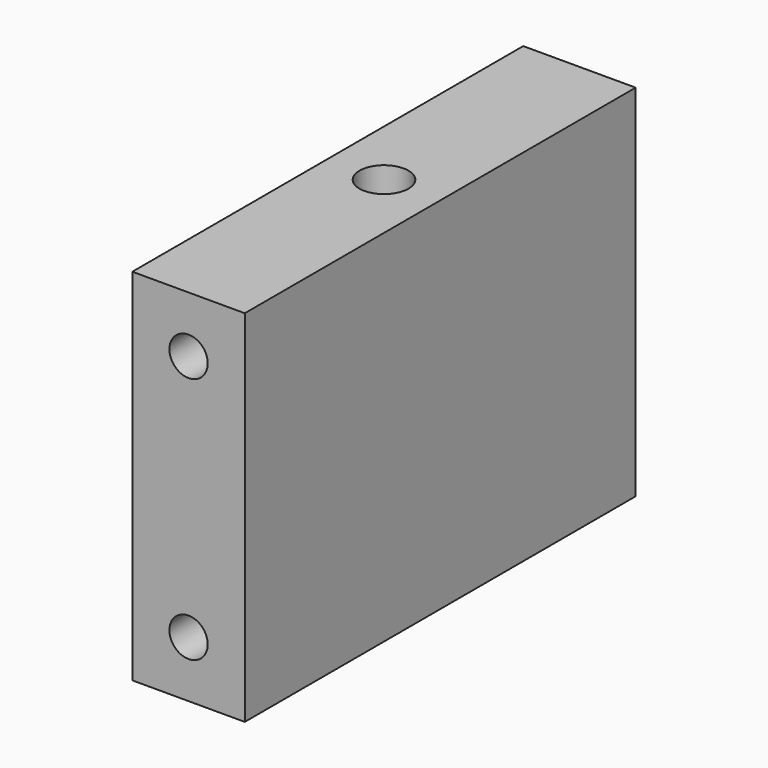
from build123d import *

# Parameters (mm, degrees)
F0_W     = 7.9375
F0_H     = 34.493074
F0_R     = 1.7272
F1_DEPTH = 25.4
F2_R     = 1.35255
F3_DEPTH = 4.7625
F4_R     = 1.35255
F5_DEPTH = 4.7625


with BuildPart() as f1:
    # F0 (on Top) → F1 (new body)
    with BuildSketch(Plane.XY):
        Rectangle(F0_W, F0_H)
        Circle(F0_R, mode=Mode.SUBTRACT)
    extrude(amount=F1_DEPTH)

    # F2 (on face) → F3 (cut)
    with BuildSketch(Plane(origin=(0, 17.246537, 0), x_dir=(-1, 0, 0), z_dir=(0, 1, 0))):
        with Locations((0, 3.96875)):
            Circle(F2_R)
        with Locations((0, 21.43125)):
            Circle(F2_R)
    extrude(amount=-F3_DEPTH, mode=Mode.SUBTRACT)

    # F4 (on face) → F5 (cut)
    with BuildSketch(Plane.XZ.offset(17.246537)):
        with Locations((0, 21.43125)):
            Circle(F4_R)
        with Locations((0, 3.96875)):
            Circle(F4_R)
    extrude(amount=-F5_DEPTH, mode=Mode.SUBTRACT)


solid = f1.part
